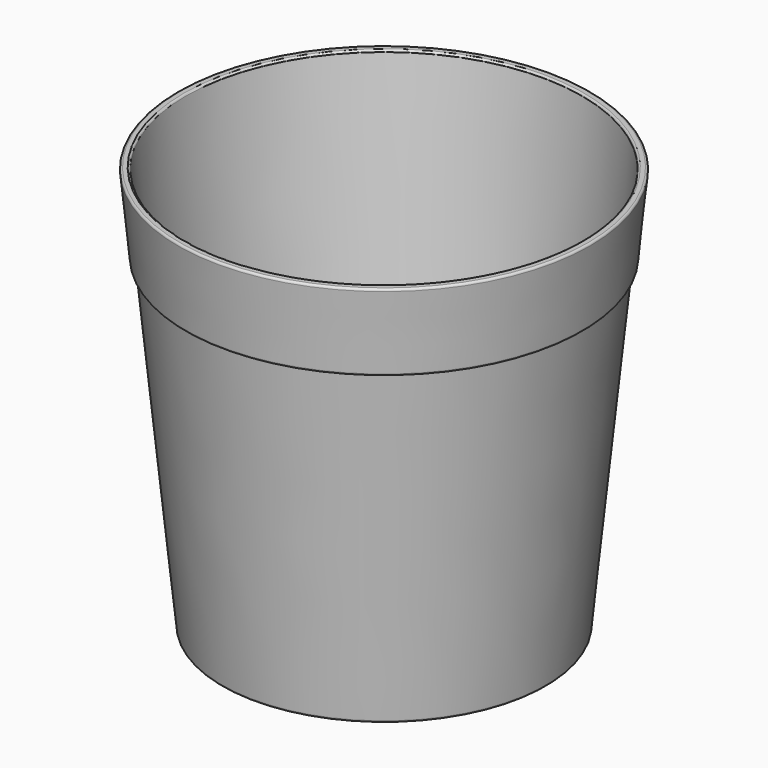
from build123d import *

# Parameters (mm, degrees)
F2_R     = 5
F3_R     = 30
F4_DEPTH = 10.001


with BuildPart() as f1:
    # F0 (on Front) → F1 (revolve)
    with BuildSketch(Plane.XZ):
        Polygon((-480.099256, 800.992562), (-400, 0), (0, 0), (0, 10), (-390.950124, 10), (-489.950124, 1000), (-500, 1000), align=None)
        Polygon((-490.149132, 800.992562), (-480.099256, 800.992562), (-500, 1000), (-510.049876, 1000), align=None)
    revolve(axis=Axis((0, 0, 513.822615), (0, 0, 1)))

    # F2
    f2_edges = [f1.edges().sort_by_distance(p)[0] for p in [
        (489.950124, 0, 1000),
        (510.049876, 0, 1000),
        (390.950124, 0, 10),
        (490.149132, 0, 800.992562),
        (400, 0, 0),
        (480.099256, 0, 800.992562),
    ]]
    fillet(f2_edges, radius=F2_R)

    # F3 (on face) → F4 (cut, through all)
    with BuildSketch(Plane.XY.offset(10)):
        with Locations((-50, 0)):
            Circle(F3_R)
        with Locations((50, 0)):
            Circle(F3_R)
    extrude(amount=-F4_DEPTH, mode=Mode.SUBTRACT)


solid = f1.part
